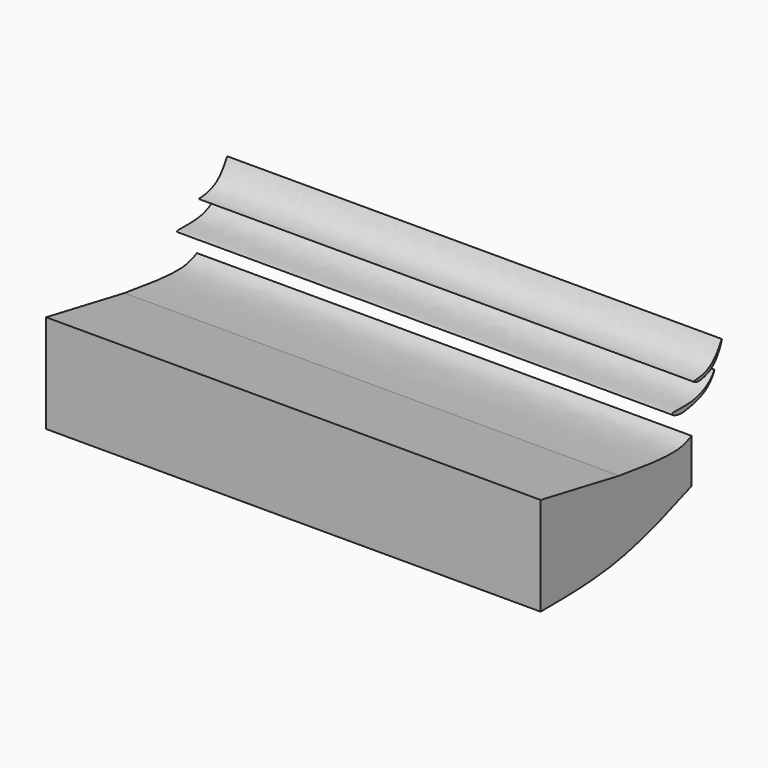
from build123d import *

# Parameters (mm, degrees)
F1_DEPTH = 91.6900467128


with BuildPart() as f1:
    # F0 (on Right) → F1 (new body)
    with BuildSketch(Plane.YZ):
        with BuildLine():
            add(Edge.make_bspline(
                [(-21.6746143997, 13.6726349592), (-16.3150219827, 12.9082365016), (-8.339788747, 11.7707890185), (-5.7529133367, 12.9829459822), (-4.9044936895, 13.380497694)],
                knots=[0, 0, 0, 0, 0.6720297727, 1, 1, 1, 1], degree=3))
            add(Edge.make_bspline(
                [(-39.8511774838, 17.1116255224), (-33.7923225015, 15.965295257), (-27.7334693819, 14.8189652245), (-21.6746143997, 13.6726349592)],
                knots=[0, 0, 0, 0, 18.4990297487, 18.4990297487, 18.4990297487, 18.4990297487], degree=3))
            Line((-39.8511774838, 17.1116255224), (-39.8511774838, -1.1273240671))
            add(Edge.make_bspline(
                [(-4.9044936895, 5.1563382149), (-10.357952847, 3.1037146574), (-21.402985251, -1.0535174034), (-33.6507288062, -1.1025170822), (-39.8511774838, -1.1273240671)],
                knots=[0, 0, 0, 0, 0.493747679, 1, 1, 1, 1], degree=3))
            Line((-4.9044936895, 5.1563382149), (-4.9044936895, 13.380497694))
        make_face()
    extrude(amount=F1_DEPTH)


with BuildPart() as f1b:
    # F0 (on Right) → F1, piece 2 (new body)
    with BuildSketch(Plane.YZ):
        with BuildLine():
            add(Edge.make_bspline(
                [(-9.4886254519, 18.7949296087), (-9.3491707777, 19.0942832837), (-3.7980066482, 18.2888419659), (-0.0648544501, 20.9207711778), (0.4873174115, 22.2531032168), (0.2671003377, 21.5129646504), (-0.4940670493, 20.3792598866), (-2.1673605251, 18.9648423728), (-5.4540262893, 18.1288844652), (-7.9777842148, 17.7931132779), (-9.56155423, 18.6383805518), (-9.4886254519, 18.7949296087)],
                knots=[0, 0, 0, 0, 0.1698019649, 0.3365140205, 0.4021024164, 0.4488065618, 0.537350137, 0.647751872, 0.7852797551, 0.9112008982, 1, 1, 1, 1], degree=3))
        make_face()
    extrude(amount=F1_DEPTH)


with BuildPart() as f1c:
    # F0 (on Right) → F1, piece 3 (new body)
    with BuildSketch(Plane.YZ):
        with BuildLine():
            add(Edge.make_bspline(
                [(-3.9152679965, 22.0884457231), (-3.0816040409, 22.1239520124), (0.3157720645, 22.5265014424), (2.670784019, 27.6200360174), (1.4699224633, 24.2972820524), (0.075525159, 22.6947351147), (-1.234380231, 21.966993966), (-3.510339092, 21.3476700108), (-4.5997867714, 22.0936756445), (-4.1914353522, 22.076683576), (-3.9152679965, 22.0884457231)],
                knots=[0, 0, 0, 0, 0.1824951229, 0.3518740283, 0.4728120158, 0.6106448244, 0.7207414211, 0.8583585356, 0.9395449507, 1, 1, 1, 1], degree=3))
        make_face()
    extrude(amount=F1_DEPTH)


solid = Compound([f1.part, f1b.part, f1c.part])
